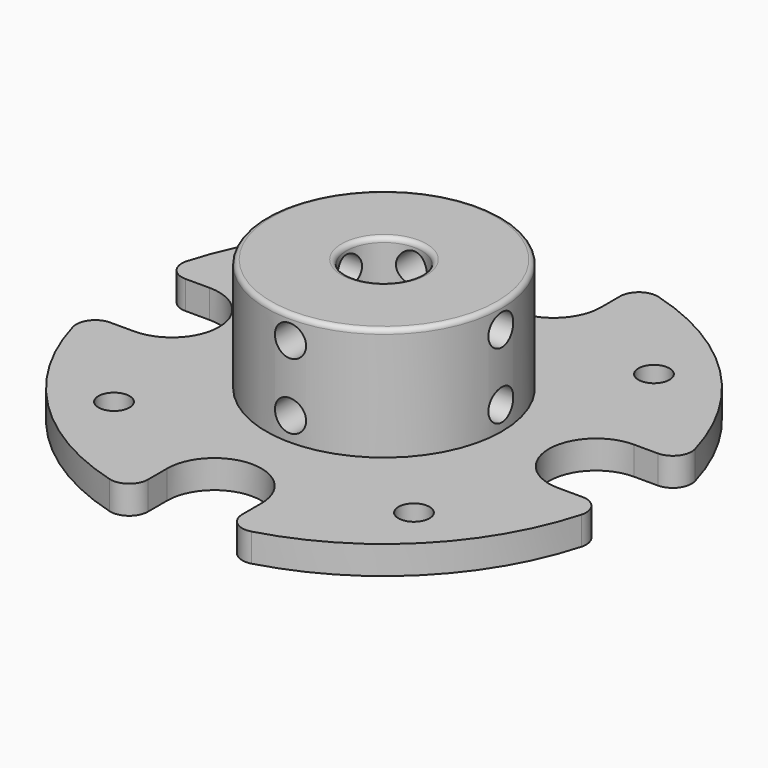
from build123d import *

# Parameters (mm, degrees)
SKETCH_R             = 1.65
SKETCH_R_2           = 4
PAD_DEPTH            = 3
POLARPATTERN_COUNT   = 4
SKETCH001_R          = 12.5
SKETCH001_R_2        = 4
PAD001_DEPTH         = 12
SKETCH002_R          = 1.65
POCKET_DEPTH         = 27.550955
POCKET_DEPTH_BACK    = 27.550955
SKETCH003_R          = 1.65
POCKET001_DEPTH      = 27.550955
POCKET001_DEPTH_BACK = 27.550955
FILLET_R             = 0.5
FILLET001_R          = 2


with BuildPart() as part:
    # Sketch → Pad (new body)
    with BuildSketch(Plane.XY):
        with BuildLine():
            ThreePointArc((22.5, 5), (17.5, 0), (22.5, -5))
            Line((27.549955, -5), (22.5, -5))
            ThreePointArc((5, -27.549955), (19.79899, -19.79899), (27.549955, -5))
            Line((5, -27.549955), (5, -22.5))
            ThreePointArc((5, -22.5), (0, -17.5), (-5, -22.5))
            Line((-5, -27.549955), (-5, -22.5))
            ThreePointArc((-27.549955, -5), (-19.79899, -19.79899), (-5, -27.549955))
            Line((-27.549955, -5), (-22.5, -5))
            ThreePointArc((-22.5, -5), (-17.5, 0), (-22.5, 5))
            Line((-27.549955, 5), (-22.5, 5))
            ThreePointArc((-5, 27.549955), (-19.79899, 19.79899), (-27.549955, 5))
            Line((-5, 22.5), (-5, 27.549955))
            ThreePointArc((-5, 22.5), (0, 17.5), (5, 22.5))
            Line((5, 22.5), (5, 27.549955))
            ThreePointArc((27.549955, 5), (19.79899, 19.79899), (5, 27.549955))
            Line((22.5, 5), (27.549955, 5))
        make_face()
        with Locations((15.909903, -15.909903)):
            Circle(SKETCH_R, mode=Mode.SUBTRACT)
        Circle(SKETCH_R_2, mode=Mode.SUBTRACT)
        with Locations((-15.909903, -15.909903)):
            Circle(SKETCH_R, mode=Mode.SUBTRACT)
        with Locations((-15.909903, 15.909903)):
            Circle(SKETCH_R, mode=Mode.SUBTRACT)
        with Locations((15.909903, 15.909903)):
            Circle(SKETCH_R, mode=Mode.SUBTRACT)
    pad = extrude(amount=PAD_DEPTH)

    # PolarPattern: Pad ×4 about axis
    polarpattern_axis = Axis((0, 0, 0), (0, 0, 1))
    for i in range(1, POLARPATTERN_COUNT):
        add(pad.rotate(polarpattern_axis, i * 360 / POLARPATTERN_COUNT))

    # Sketch001 (on DatumPlane) → Pad001 (join)
    with BuildSketch(Plane.XY.offset(3)):
        Circle(SKETCH001_R)
        Circle(SKETCH001_R_2, mode=Mode.SUBTRACT)
    extrude(amount=PAD001_DEPTH)

    # Sketch002 → Pocket (cut, two sides)
    with BuildSketch(Plane.XZ) as pocket_sk:
        with Locations((0, 5.5)):
            Circle(SKETCH002_R)
        with Locations((0, 12.5)):
            Circle(SKETCH002_R)
    extrude(amount=-POCKET_DEPTH, mode=Mode.SUBTRACT)
    extrude(pocket_sk.sketch, amount=POCKET_DEPTH_BACK, mode=Mode.SUBTRACT)

    # Sketch003 → Pocket001 (cut, two sides)
    with BuildSketch(Plane.YZ) as pocket001_sk:
        with Locations((0, 5.5)):
            Circle(SKETCH003_R)
        with Locations((0, 12.5)):
            Circle(SKETCH003_R)
    extrude(amount=-POCKET001_DEPTH, mode=Mode.SUBTRACT)
    extrude(pocket001_sk.sketch, amount=POCKET001_DEPTH_BACK, mode=Mode.SUBTRACT)

    # Fillet
    fillet_edges = [part.edges().sort_by_distance(p)[0] for p in [
        (-12.5, 0, 15),
        (-4, 0, 15),
        (2.828427, -2.828427, 0),
        (2.828427, 2.828427, 0),
        (-2.828427, 2.828427, 0),
        (-2.828427, -2.828427, 0),
    ]]
    fillet(fillet_edges, radius=FILLET_R)

    # Fillet001
    fillet001_edges = [part.edges().sort_by_distance(p)[0] for p in [
        (5, -27.549955, 1.5),
        (-5, -27.549955, 1.5),
        (-27.549955, -5, 1.5),
        (-27.549955, 5, 1.5),
        (27.549955, -5, 1.5),
        (27.549955, 5, 1.5),
        (5, 27.549955, 1.5),
        (-5, 27.549955, 1.5),
    ]]
    fillet(fillet001_edges, radius=FILLET001_R)


solid = part.part
